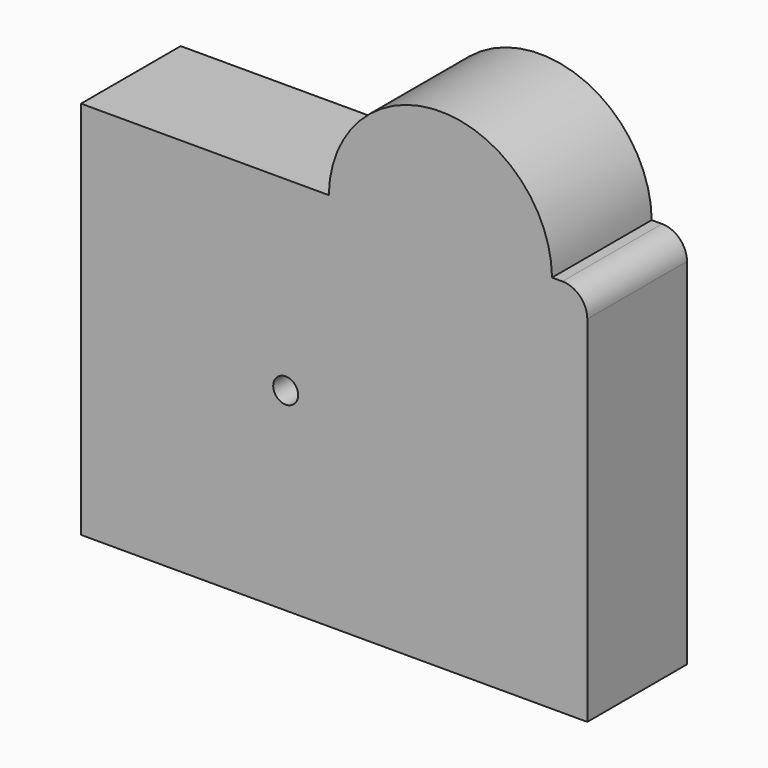
from build123d import *

# Parameters (mm, degrees)
F0_W     = 101.6
F0_H     = 76.2
F1_DEPTH = 25
F2_R     = 5
F4_D     = 5
F5_R     = 22.404033
F6_DEPTH = 25


with BuildPart() as f1:
    # F0 (on Front) → F1 (new body)
    with BuildSketch(Plane.XZ):
        with Locations((9.736366, -0.770457)):
            Rectangle(F0_W, F0_H)
    extrude(amount=F1_DEPTH)

    # F2
    f2_edges = [f1.edges().sort_by_distance(p)[0] for p in [
        (60.536366, -12.5, 37.329543),
    ]]
    fillet(f2_edges, radius=F2_R)

    # F4 (through all)
    with Locations(Plane(origin=(0, 0, 0), x_dir=(-1, 0, 0), z_dir=(0, 1, 0))):
        with Locations((0, 0)):
            Hole(F4_D / 2)

    # F5 (on Front) → F6 (join)
    with BuildSketch(Plane.XZ):
        with Locations((31.058818, 37.010595)):
            Circle(F5_R)
    extrude(amount=F6_DEPTH)


solid = f1.part
